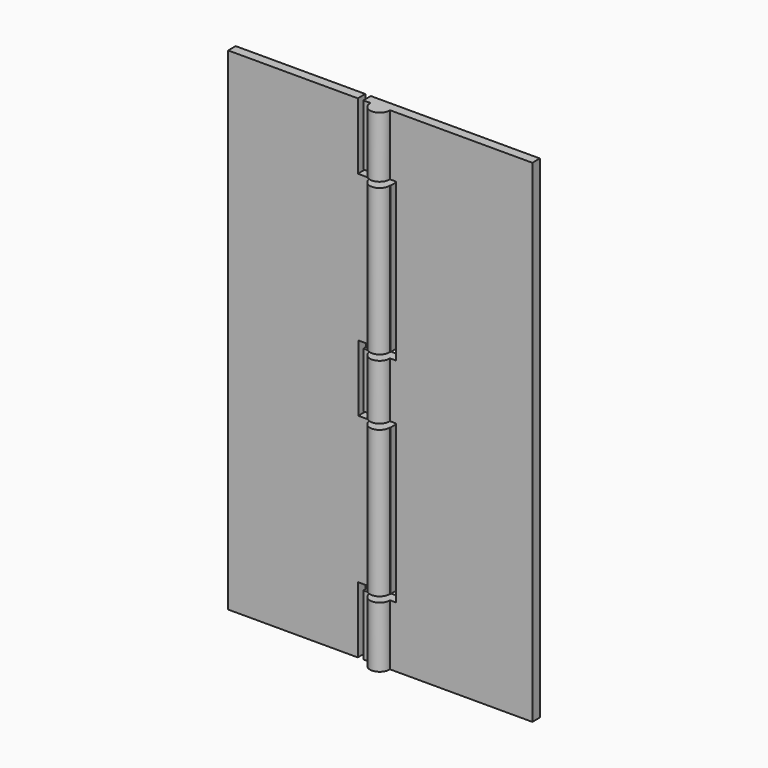
from build123d import *

# Parameters (mm, degrees)
F0_W     = 55
F0_H     = 89
F1_DEPTH = 1.7
F2_R     = 1.75
F3_DEPTH = 89
F5_DEPTH = 3.585162


with BuildPart() as f1:
    # F0 (on Front) → F1 (new body)
    with BuildSketch(Plane.XZ):
        with Locations((0, 44.5)):
            Rectangle(F0_W, F0_H)
    extrude(amount=F1_DEPTH)

    # F2 (on Top) → F3 (join, through all)
    with BuildSketch(Plane.XY):
        with Locations((0, -1.834162)):
            Circle(F2_R)
    extrude(amount=F3_DEPTH)

    # F4 (on Front) → F5 (cut, through all)
    with BuildSketch(Plane.XZ):
        Polygon((-3.060026, 89), (-4.060026, 89), (-4.060026, 77), (1.827971, 77), (1.827971, 50.5), (-3.972793, 50.5), (-3.972793, 38.5), (1.827971, 38.5), (1.827971, 12), (-4.060026, 12), (-4.060026, 0), (-3.060026, 0), (-3.060026, 11), (2.827971, 11), (2.827971, 39.5), (-3.060026, 39.5), (-3.060026, 49.5), (2.827971, 49.5), (2.827971, 78), (-3.060026, 78), align=None)
    extrude(amount=F5_DEPTH, mode=Mode.SUBTRACT)


solid = f1.part
